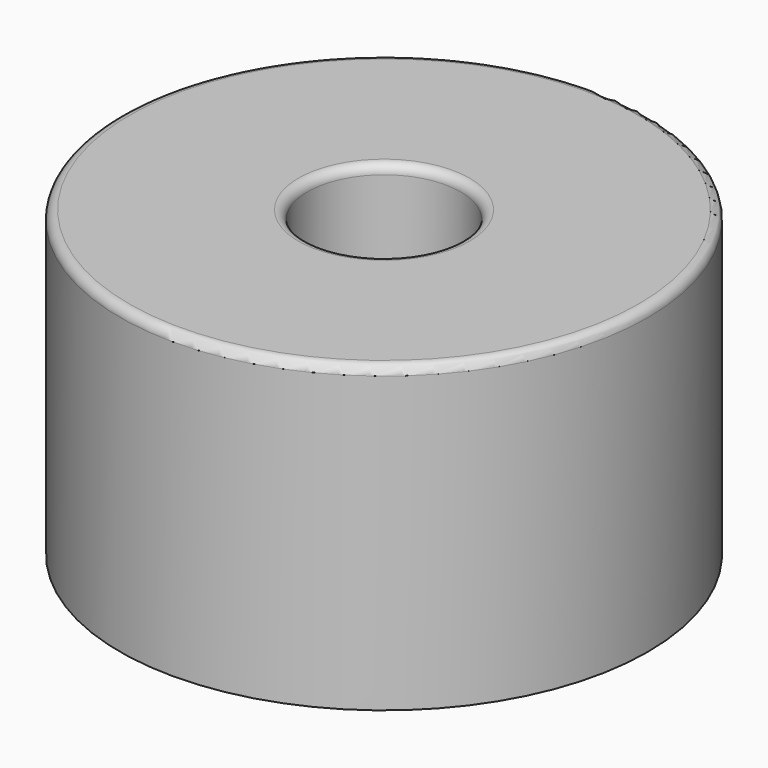
from build123d import *

# Parameters (mm, degrees)
F2_R = 1


with BuildPart() as f1:
    # F0 (on Front) → F1 (revolve)
    with BuildSketch(Plane.XZ):
        Polygon((29.0886, 52.241075), (8.428346, 52.241075), (8.428346, 23.81056), (17.0886, 18.81056), (29.0886, 18.81056), align=None)
    revolve(axis=Axis((0, 0, 34.322324), (0, 0, 1)))

    # F2
    f2_edges = [f1.edges().sort_by_distance(p)[0] for p in [
        (-29.0886, 0, 52.241075),
        (-8.428346, 0, 52.241075),
    ]]
    fillet(f2_edges, radius=F2_R)


solid = f1.part
